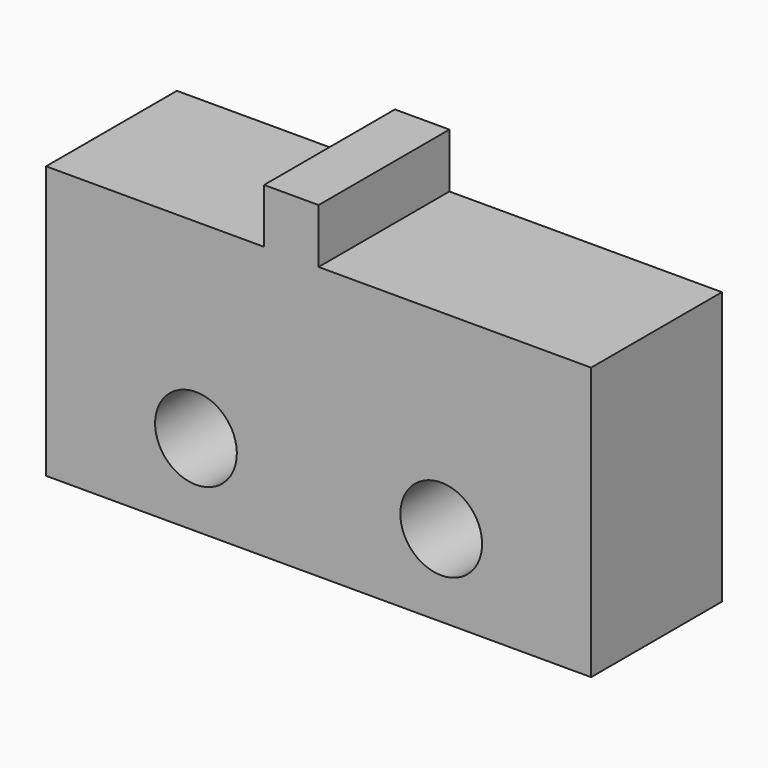
from build123d import *

# Parameters (mm, degrees)
CYLINDER036_R           = 1.5
CYLINDER036_DEPTH       = 10
ARRAY001016_Y_COUNT     = 2
ARRAY001016_Y_PITCH     = 9
BOX016_W                = 6
BOX016_H                = 20
BOX016_DEPTH            = 10
BOX017_W                = 6
BOX017_H                = 2
BOX017_DEPTH            = 2
BODY002_PLACEMENT_ANGLE = 90


with BuildPart() as end_stop_hole_array:
    # Cylinder036 → Cylinder036 (new body)
    with BuildSketch(Plane(origin=(-2, 5.5, 3), x_dir=(0, 0, -1), z_dir=(1, 0, 0))):
        Circle(CYLINDER036_R)
    extrude(amount=CYLINDER036_DEPTH)

    # Array001016 Y: end stop hole array ×2


with BuildPart() as end_stop_hole_array_1:
    add(end_stop_hole_array.part)
    with Locations(*[(0, i * ARRAY001016_Y_PITCH, 0) for i in range(1, ARRAY001016_Y_COUNT)]):
        add(end_stop_hole_array.part)


with BuildPart() as end_stop_body_cube:
    # Box016 → Box016 (new body)
    with BuildSketch(Plane.XY):
        with Locations((3, 10)):
            Rectangle(BOX016_W, BOX016_H)
    extrude(amount=BOX016_DEPTH)


with BuildPart() as bottom_end_stop_clone:
    # Box017 → Box017 (new body)
    with BuildSketch(Plane(origin=(0, 8, 10), x_dir=(1, 0, 0), z_dir=(0, 0, 1))):
        with Locations((3, 1)):
            Rectangle(BOX017_W, BOX017_H)
    extrude(amount=BOX017_DEPTH)

    # Fusion014: union end stop body cube
    add(end_stop_body_cube.part)

    # Cut013: cut end stop hole array
    add(end_stop_hole_array_1.part, mode=Mode.SUBTRACT)


with BuildPart() as bottom_end_stop_clone_1:
    # Body002 placement: moved
    add(bottom_end_stop_clone.part.moved(Location((16, 0, 1))).rotate(Axis((16, 0, 1), (0, 0, -1)), BODY002_PLACEMENT_ANGLE))


solid = bottom_end_stop_clone_1.part
